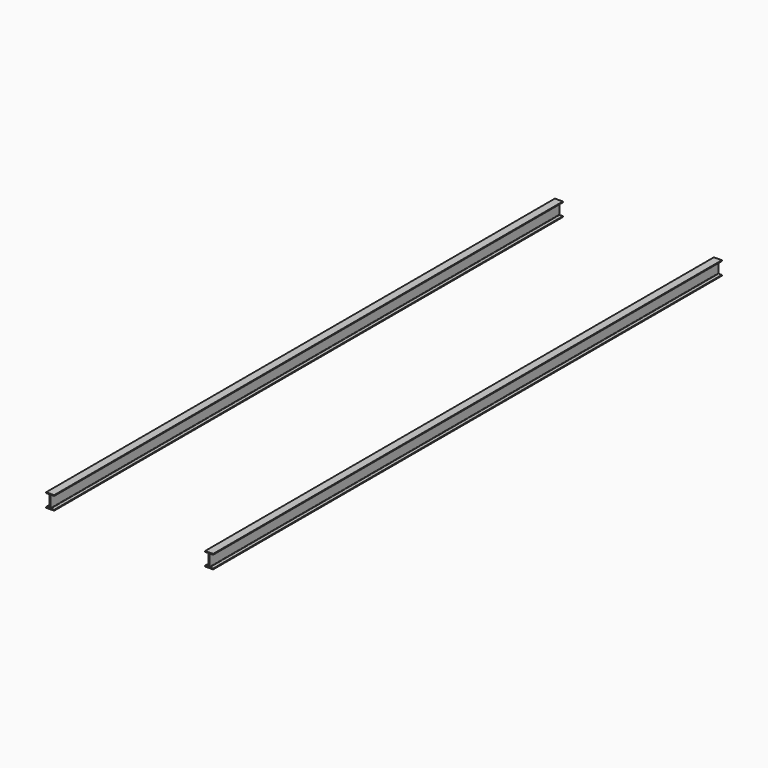
from build123d import *

# Parameters (mm, degrees)
F1_DEPTH = 2000


with BuildPart() as f1:
    # F0 (on Front) → F1 (new body)
    with BuildSketch(Plane.XZ):
        with BuildLine():
            ThreePointArc((-12.7, 19.304), (-12.625605, 19.124395), (-12.446, 19.05))
            Line((-12.446, 19.05), (-2.54, 19.05))
            ThreePointArc((-2.54, 19.05), (-1.641974, 18.678026), (-1.27, 17.78))
            Line((-1.27, 17.78), (-1.27, -17.78))
            ThreePointArc((-1.27, -17.78), (-1.641974, -18.678026), (-2.54, -19.05))
            Line((-2.54, -19.05), (-12.446, -19.05))
            ThreePointArc((-12.446, -19.05), (-12.625605, -19.124395), (-12.7, -19.304))
            Line((-12.7, -19.304), (-12.7, -21.336))
            ThreePointArc((-12.7, -21.336), (-12.625605, -21.515605), (-12.446, -21.59))
            Line((-12.446, -21.59), (12.446, -21.59))
            ThreePointArc((12.446, -21.59), (12.625605, -21.515605), (12.7, -21.336))
            Line((12.7, -21.336), (12.7, -19.304))
            ThreePointArc((12.7, -19.304), (12.625605, -19.124395), (12.446, -19.05))
            Line((12.446, -19.05), (2.54, -19.05))
            ThreePointArc((2.54, -19.05), (1.641974, -18.678026), (1.27, -17.78))
            Line((1.27, -17.78), (1.27, 17.78))
            ThreePointArc((1.27, 17.78), (1.641974, 18.678026), (2.54, 19.05))
            Line((2.54, 19.05), (12.446, 19.05))
            ThreePointArc((12.446, 19.05), (12.625605, 19.124395), (12.7, 19.304))
            Line((12.7, 19.304), (12.7, 21.336))
            ThreePointArc((12.7, 21.336), (12.625605, 21.515605), (12.446, 21.59))
            Line((12.446, 21.59), (-12.446, 21.59))
            ThreePointArc((-12.446, 21.59), (-12.625605, 21.515605), (-12.7, 21.336))
            Line((-12.7, 21.336), (-12.7, 19.304))
        make_face()
    extrude(amount=F1_DEPTH)


with BuildPart() as f2_1:
    # F2: copy of F1
    add(f1.part.moved(Location((500, 0, 0))))


solid = Compound([f1.part, f2_1.part])
